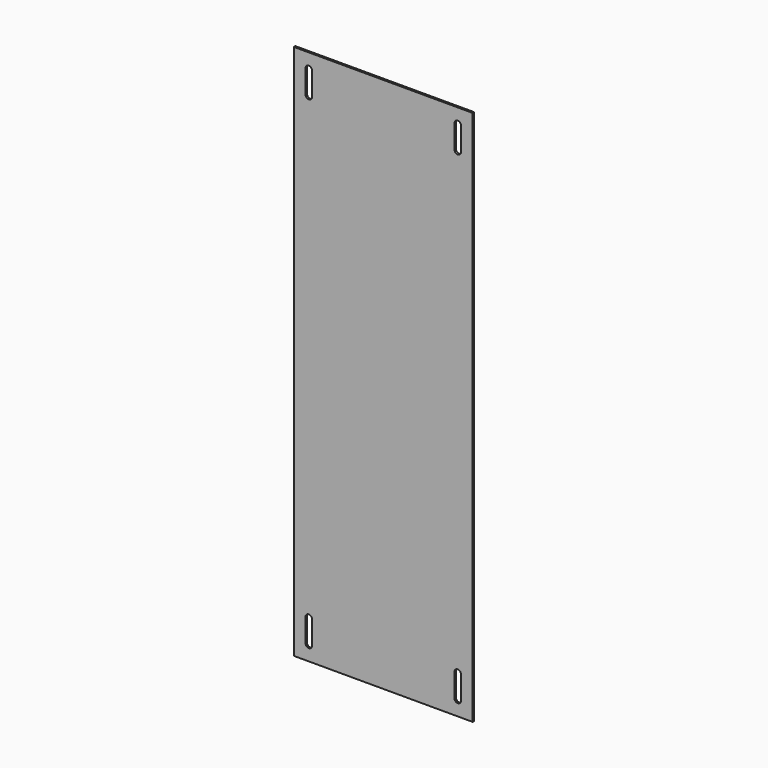
from build123d import *

# Parameters (mm, degrees)
F0_W     = 304.8
F0_H     = 914.4
F1_DEPTH = 3.175


with BuildPart() as f1:
    # F0 (on Front) → F1 (new body)
    with BuildSketch(Plane.XZ):
        Rectangle(F0_W, F0_H)
        with BuildLine():
            ThreePointArc((-121.44375, -431.8), (-127, -437.35625), (-132.55625, -431.8))
            Line((-132.55625, -431.8), (-132.55625, -392.1125))
            ThreePointArc((-132.55625, -392.1125), (-127, -386.55625), (-121.44375, -392.1125))
            Line((-121.44375, -392.1125), (-121.44375, -431.8))
        make_face(mode=Mode.SUBTRACT)
        with BuildLine():
            ThreePointArc((132.55625, -431.8), (127, -437.35625), (121.44375, -431.8))
            Line((121.44375, -431.8), (121.44375, -392.1125))
            ThreePointArc((121.44375, -392.1125), (127, -386.55625), (132.55625, -392.1125))
            Line((132.55625, -392.1125), (132.55625, -431.8))
        make_face(mode=Mode.SUBTRACT)
        with BuildLine():
            ThreePointArc((-132.55625, 431.8), (-127, 437.35625), (-121.44375, 431.8))
            Line((-121.44375, 431.8), (-121.44375, 392.1125))
            ThreePointArc((-121.44375, 392.1125), (-127, 386.55625), (-132.55625, 392.1125))
            Line((-132.55625, 392.1125), (-132.55625, 431.8))
        make_face(mode=Mode.SUBTRACT)
        with BuildLine():
            ThreePointArc((121.44375, 431.8), (127, 437.35625), (132.55625, 431.8))
            Line((132.55625, 431.8), (132.55625, 392.1125))
            ThreePointArc((132.55625, 392.1125), (127, 386.55625), (121.44375, 392.1125))
            Line((121.44375, 392.1125), (121.44375, 431.8))
        make_face(mode=Mode.SUBTRACT)
    extrude(amount=F1_DEPTH)


solid = f1.part
